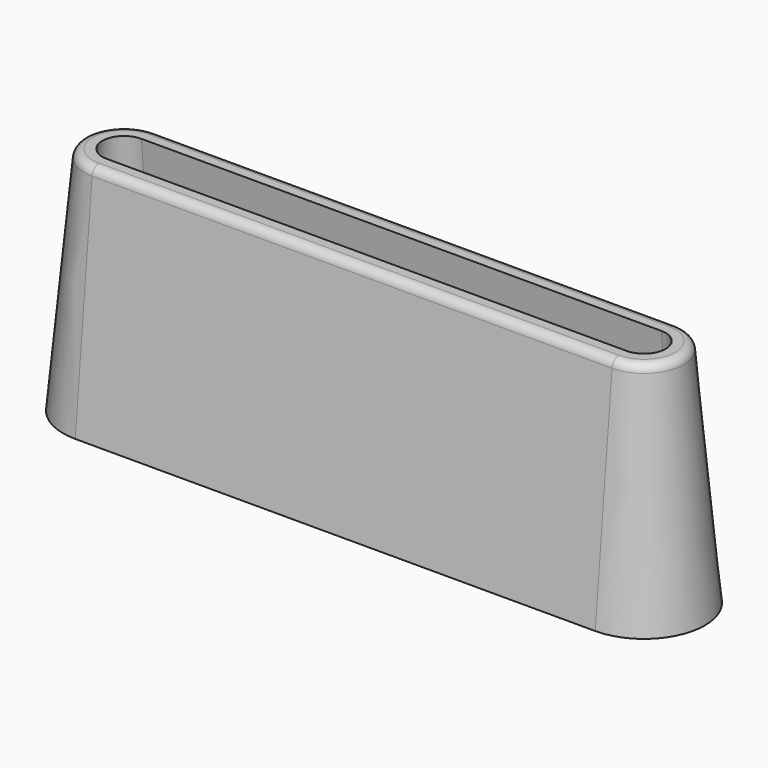
from build123d import *

# Parameters (mm, degrees)
F1_ANGLE_BACK = 90
F1_ANGLE      = 180
F3_DEPTH      = 119.4722198035
F4_R          = 2


with BuildPart() as f1:
    # F0 (on Front) → F1 (revolve)
    with BuildSketch(Plane.XZ, mode=Mode.PRIVATE) as f1_sk:
        Polygon((-73.7361099018, -26.5), (-69.7183494024, -26.5), (-64.7183494024, 26.5), (-68.7361099018, 26.5), align=None)
    revolve(f1_sk.sketch.rotate(Axis((-59.7361099018, 0, 0), (0, 0, -1)), -F1_ANGLE_BACK), axis=Axis((-59.7361099018, 0, 0), (0, 0, -1)), revolution_arc=F1_ANGLE)


with BuildPart() as f2_1:
    # F2: instance of F1
    add(f1.part.mirror(Plane.YZ))


with BuildPart() as f1_1:
    add(f1.part)

    # F3 (add, through all): faces of the model
    f3_faces = [f1_1.faces().sort_by_distance(p)[0] for p in [
        (-59.7361099018, -9.4911197503, 0),
        (-59.7361099018, 9.4911197503, 0),
    ]]

    add(f2_1.part)  # F3 merges F2_1
    extrude(f3_faces, amount=F3_DEPTH)

    # F4
    f4_edges = [f1_1.edges().sort_by_distance(p)[0] for p in [
        (68.73611, 0, 26.5),
    ]]
    fillet(f4_edges, radius=F4_R)


solid = f1_1.part
